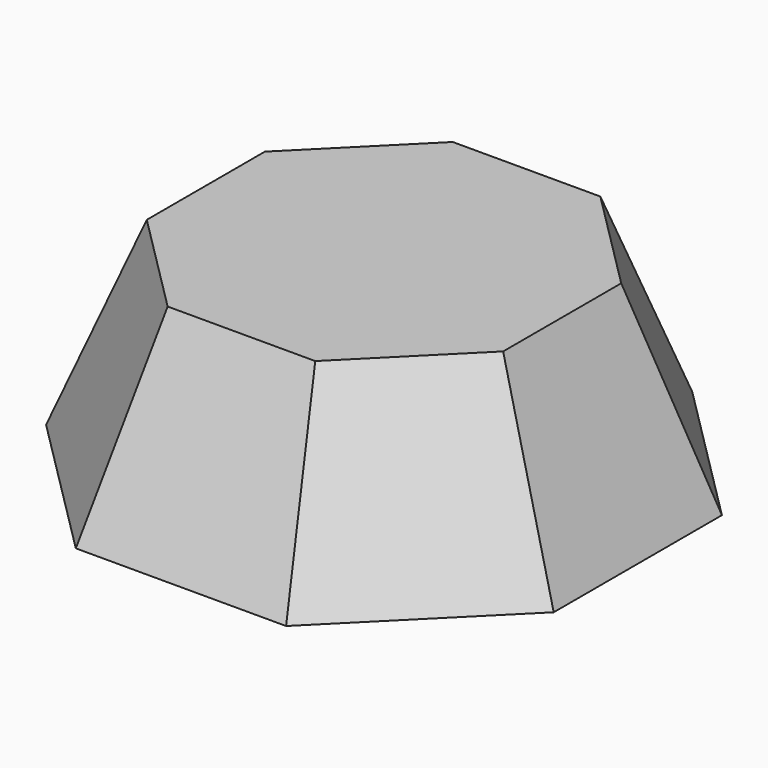
from build123d import *


with BuildPart() as f3:
    # F2 (on offset) → F3 section 0
    with BuildSketch(Plane.XY.offset(25.4)):
        Polygon((9.74742, 23.532353), (-9.74742, 23.532353), (-23.532353, 9.74742), (-23.532353, -9.74742), (-9.74742, -23.532353), (9.74742, -23.532353), (23.532353, -9.74742), (23.532353, 9.74742), align=None)
    # F0 (on Top) → F3 section 1
    with BuildSketch(Plane.XY):
        Polygon((13.8851, 33.521596), (-13.8851, 33.521596), (-33.521596, 13.8851), (-33.521596, -13.8851), (-13.8851, -33.521596), (13.8851, -33.521596), (33.521596, -13.8851), (33.521596, 13.8851), align=None)
    loft()


solid = f3.part
